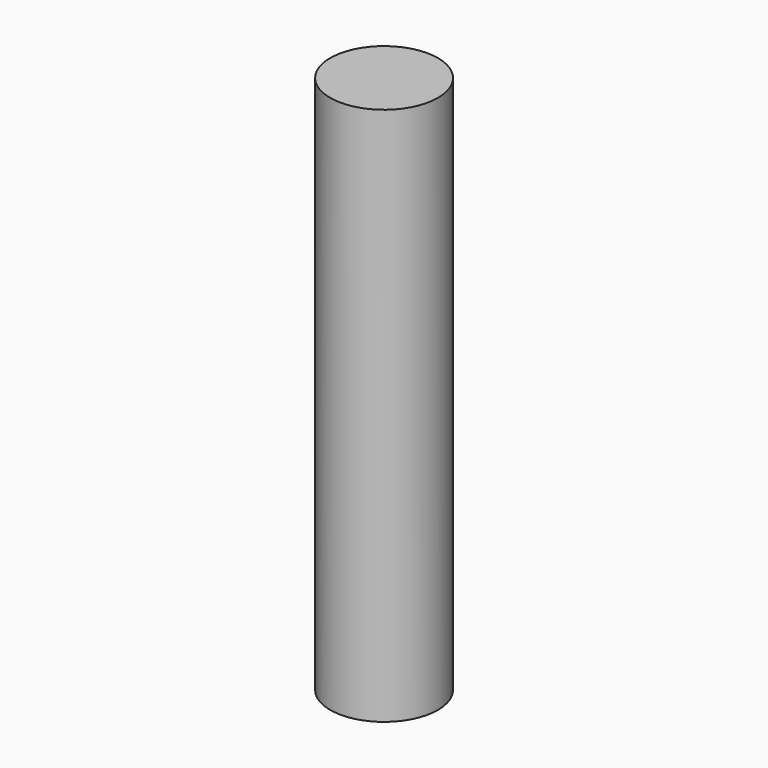
from build123d import *

# Parameters (mm, degrees)
SKETCH_R  = 2.5
PAD_DEPTH = 25


with BuildPart() as part:
    # Sketch → Pad (new body)
    with BuildSketch(Plane.XY):
        Circle(SKETCH_R)
    extrude(amount=PAD_DEPTH)


solid = part.part
